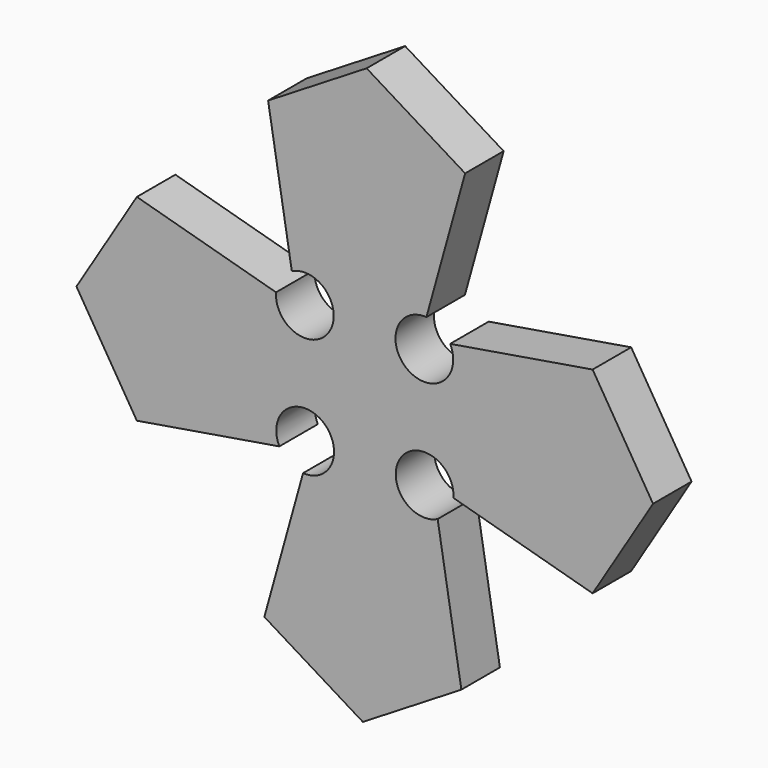
from build123d import *

# Parameters (mm, degrees)
F1_DEPTH = 127


with BuildPart() as f1:
    # F0 (on Front) → F1 (new body)
    with BuildSketch(Plane.XZ):
        with BuildLine():
            ThreePointArc((150.31693, 235.76502), (153.991447, 235.76732), (157.661801, 235.592428))
            Line((157.661801, 235.592428), (259.822199, 602.640454))
            Line((259.822199, 602.640454), (0, 762))
            Line((0, 762), (-259.822199, 602.640454))
            Line((-259.822199, 602.640454), (-197.289764, 226.80712))
            ThreePointArc((-197.289764, 226.80712), (-99.576348, 116.558748), (-238.960311, 164.252836))
            Line((-238.960311, 164.252836), (-606.008337, 266.413234))
            Line((-606.008337, 266.413234), (-765.367883, 6.591035))
            Line((-765.367883, 6.591035), (-606.008337, -253.231163))
            Line((-606.008337, -253.231163), (-230.175003, -190.698729))
            ThreePointArc((-230.175003, -190.698729), (-119.902261, -92.94873), (-167.62072, -232.369276))
            Line((-167.62072, -232.369276), (-269.781118, -599.417302))
            Line((-269.781118, -599.417302), (-9.958919, -758.776848))
            Line((-9.958919, -758.776848), (249.86328, -599.417302))
            Line((249.86328, -599.417302), (187.330846, -223.583968))
            ThreePointArc((187.330846, -223.583968), (89.580846, -113.311226), (229.001393, -161.029684))
            Line((229.001393, -161.029684), (596.049418, -263.190082))
            Line((596.049418, -263.190082), (755.408965, -3.367883))
            Line((755.408965, -3.367883), (596.049418, 256.454315))
            Line((596.049418, 256.454315), (220.216085, 193.921881))
            ThreePointArc((220.216085, 193.921881), (113.074067, 94.245649), (150.31693, 235.76502))
        make_face()
    extrude(amount=F1_DEPTH)


solid = f1.part
